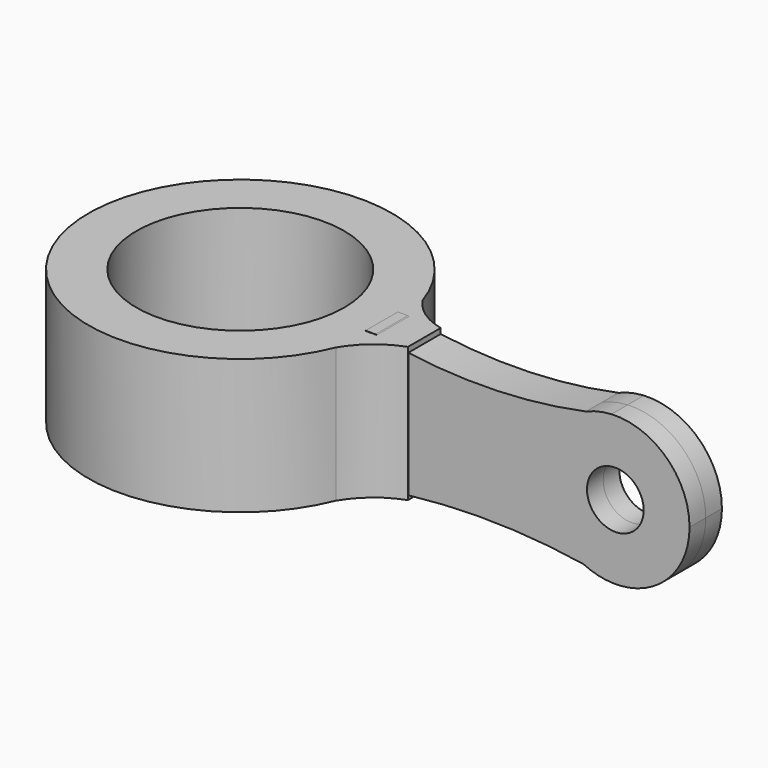
from build123d import *

# Parameters (mm, degrees)
F0_R          = 14.2875
F0_R_2        = 9.779
F1_DEPTH      = 12.7
F3_DEPTH      = 1.905
F3_DEPTH_BACK = 1.905
F5_DEPTH      = 12.7


with BuildPart() as f1:
    # F0 (on Top) → F1 (new body)
    with BuildSketch(Plane.XY):
        Circle(F0_R)
        Circle(F0_R_2, mode=Mode.SUBTRACT)
    extrude(amount=F1_DEPTH)

    # F2 (on Front) → F3 (join, two sides)
    with BuildSketch(Plane.XZ) as f3_sk:
        with BuildLine():
            Line((13.3136538789, 12.7235082909), (13.3136538789, 6.35))
            Line((13.3136538789, 6.35), (29.845, 6.35))
            ThreePointArc((29.845, 6.35), (30.994771982, 10.18931491), (34.0655694999, 12.7646823))
            ThreePointArc((34.0655694999, 12.7646823), (24.1589088565, 11.7366418782), (14.2480619252, 12.7235082909))
            Line((14.2480619252, 12.7235082909), (13.3136538789, 12.7235082909))
        make_face()
        with BuildLine():
            Line((29.845, 6.35), (13.3136538789, 6.35))
            Line((13.3136538789, 6.35), (13.3136538789, 0))
            Line((13.3136538789, 0), (14.5748257637, 0))
            ThreePointArc((14.5748257637, 0), (24.1986734185, 0.7965285613), (33.8260559146, 0.0439279316))
            ThreePointArc((33.8260559146, 0.0439279316), (30.9235300544, 2.6212149725), (29.845, 6.35))
        make_face()
        with BuildLine():
            ThreePointArc((34.0655694999, 12.7646823), (30.994771982, 10.18931491), (29.845, 6.35))
            ThreePointArc((29.845, 6.35), (30.9235300544, 2.6212149725), (33.8260559146, 0.0439279316))
            ThreePointArc((33.8260559146, 0.0439279316), (35.5736615146, -0.2615447543), (37.311506327, -0.6183840779))
            ThreePointArc((37.311506327, -0.6183840779), (41.9365422105, 1.5841368407), (43.815, 6.35))
            ThreePointArc((43.815, 6.35), (41.6376310588, 11.4172387552), (36.4629860837, 13.3253513019))
            ThreePointArc((36.4629860837, 13.3253513019), (35.2677832143, 13.0300276397), (34.0655694999, 12.7646823))
        make_face()
        with BuildLine():
            ThreePointArc((39.497, 6.35), (36.83, 3.683), (34.163, 6.35))
            ThreePointArc((34.163, 6.35), (36.83, 9.017), (39.497, 6.35))
        make_face(mode=Mode.SUBTRACT)
        with BuildLine():
            ThreePointArc((36.4629860837, 13.3253513019), (35.2393795344, 13.1514815691), (34.0655694999, 12.7646823))
            ThreePointArc((34.0655694999, 12.7646823), (35.2677832143, 13.0300276397), (36.4629860837, 13.3253513019))
        make_face()
        with BuildLine():
            ThreePointArc((37.311506327, -0.6183840779), (35.5736615146, -0.2615447543), (33.8260559146, 0.0439279316))
            ThreePointArc((33.8260559146, 0.0439279316), (35.5260301534, -0.5122071988), (37.311506327, -0.6183840779))
        make_face()
    extrude(amount=F3_DEPTH)
    extrude(f3_sk.sketch, amount=-F3_DEPTH_BACK)

    # F4 (on face) → F5 (join, through all)
    with BuildSketch(Plane.XY.offset(12.7)):
        with BuildLine():
            ThreePointArc((17.3360537738, 1.9065266242), (15.2188372166, 2.8229826148), (13.5784069673, 4.4451682175))
            ThreePointArc((13.5784069673, 4.4451682175), (13.9272019714, 3.188369724), (14.1599304818, 1.905))
            Line((14.1599304818, 1.905), (13.4946856848, 1.905))
            Line((13.4946856848, 1.905), (13.4318988812, 0))
            Line((13.4318988812, 0), (17.3360537738, 0))
            Line((17.3360537738, 0), (17.3360537738, 1.9065266242))
        make_face()
        with BuildLine():
            ThreePointArc((14.1599304818, -1.905), (13.8146153266, -3.6454162489), (13.2562405183, -5.3296100767))
            ThreePointArc((13.2562405183, -5.3296100767), (15.0043175715, -3.2852044457), (17.3360537738, -1.9441697514))
            Line((17.3360537738, -1.9441697514), (17.3360537738, 0))
            Line((17.3360537738, 0), (13.4318988812, 0))
            Line((13.4318988812, 0), (13.3691120776, -1.905))
            Line((13.3691120776, -1.905), (14.1599304818, -1.905))
        make_face()
    extrude(amount=-F5_DEPTH)


solid = f1.part
